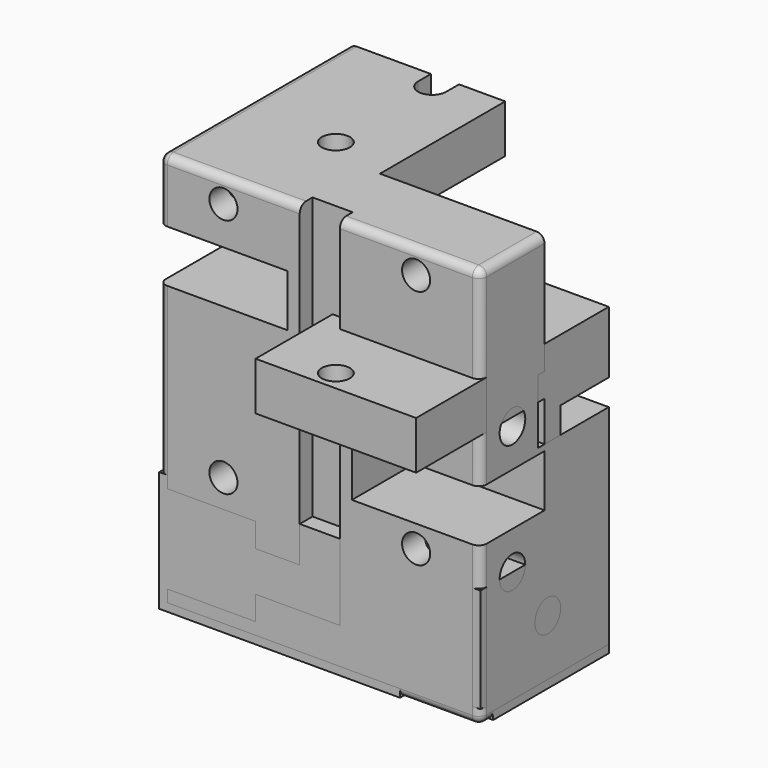
from build123d import *

# Parameters (mm, degrees)
PAD_DEPTH       = 40
SKETCH001_R     = 2
SKETCH001_W     = 6.5
SKETCH001_H     = 11
POCKET_DEPTH    = 12.5
SKETCH002_R     = 1.75
SKETCH002_W     = 20
SKETCH002_H     = 20
POCKET001_DEPTH = 6
SKETCH003_R     = 2
POCKET002_DEPTH = 10
BOX_W           = 40
BOX_H           = 40
BOX_DEPTH       = 50
FILLET_R        = 1
POCKET003_DEPTH = 40.001
POCKET005_DEPTH = 6
SKETCH007_W     = 40
SKETCH007_H     = 20
POCKET006_DEPTH = 44
SKETCH005_R     = 2
SKETCH005_W     = 10
SKETCH005_H     = 6.5
POCKET004_DEPTH = 16
SKETCH008_R     = 2
SKETCH008_W     = 10
SKETCH008_H     = 6.5
POCKET007_DEPTH = 16
SKETCH010_R     = 2
POCKET009_DEPTH = 40.001
SKETCH009_W     = 7
SKETCH009_H     = 11
POCKET008_DEPTH = 12
SKETCH011_R     = 1.75
POCKET010_DEPTH = 29.501
SKETCH012_R     = 1.75
POCKET011_DEPTH = 6
POCKET012_DEPTH = 2


with BuildPart() as body:
    # Sketch → Pad (new body)
    with BuildSketch(Plane.YZ):
        Polygon((11, 15), (11, 23), (10, 23), (10, 32), (-10, 32), (-10, 38), (20, 38), (20, 30.25), (12.5, 30.25), (12.5, 23.75), (20, 23.75), (20, 14.25), (12.5, 14.25), (12.5, 7.75), (20, 7.75), (20, 0), (0, 0), (0, 6), (0, 15), align=None)
    extrude(amount=PAD_DEPTH)

    # Sketch001 → Pocket (cut)
    with BuildSketch(Plane.YZ):
        with Locations((9.7, 8.75)):
            Circle(SKETCH001_R)
        with Locations((16.25, 34.125)):
            Circle(SKETCH001_R)
        with Locations((16.25, 19)):
            Circle(SKETCH001_R)
        with Locations((16.75, 8.75)):
            Rectangle(SKETCH001_W, SKETCH001_H)
    extrude(amount=POCKET_DEPTH, mode=Mode.SUBTRACT)

    # Sketch002 (on Face21 of Pocket) → Pocket001 (cut)
    with BuildSketch(Plane(origin=(0, 0, 38), x_dir=(0, -1, 0), z_dir=(0, 0, 1))):
        with Locations((-7.5, 28)):
            Circle(SKETCH002_R)
        with Locations((7.5, 28)):
            Circle(SKETCH002_R)
        with Locations((0, 10)):
            Rectangle(SKETCH002_W, SKETCH002_H)
    extrude(amount=-POCKET001_DEPTH, mode=Mode.SUBTRACT)

    # Sketch003 (on Face5 of Pocket001) → Pocket002 (cut)
    with BuildSketch(Plane.YZ.offset(40)):
        Circle(SKETCH003_R)
        with Locations((16.25, 11)):
            Circle(SKETCH003_R)
        with Locations((-10.3, 2.25)):
            Circle(SKETCH003_R)
    extrude(amount=-POCKET002_DEPTH, mode=Mode.SUBTRACT)


with BuildPart() as body001:
    # Box → Box (new body)
    with BuildSketch(Plane.XY):
        with Locations((20, 20)):
            Rectangle(BOX_W, BOX_H)
    extrude(amount=BOX_DEPTH)

    # Fillet
    fillet_edges = [body001.edges().sort_by_distance(p)[0] for p in [
        (40, 0, 25),
        (40, 20, 50),
        (40, 40, 25),
        (40, 20, 0),
        (20, 0, 0),
        (20, 0, 50),
        (0, 0, 25),
        (0, 20, 50),
        (20, 40, 50),
        (20, 40, 0),
        (0, 40, 25),
        (0, 20, 0),
    ]]
    fillet(fillet_edges, radius=FILLET_R)

    # Sketch004 (on Face2 of BaseFeature) → Pocket003 (cut, through all)
    with BuildSketch(Plane.YZ.offset(40)):
        Polygon((31, 27), (31, 35), (30, 35), (30, 44), (10, 44), (10, 35), (9, 35), (9, 27), align=None)
    extrude(amount=-POCKET003_DEPTH, mode=Mode.SUBTRACT)

    # Sketch006 (on Face6 of BaseFeature) → Pocket005 (cut)
    with BuildSketch(Plane.XY.offset(50)):
        Polygon((0, 29.5), (19.5, 29.5), (19.5, 10), (40, 10), (40, 40), (0, 40), align=None)
    extrude(amount=-POCKET005_DEPTH, mode=Mode.SUBTRACT)

    # Sketch007 (on Face5 of BaseFeature) → Pocket006 (cut)
    with BuildSketch(Plane(origin=(0, 0, 0), x_dir=(1, 0, 0), z_dir=(0, 0, -1))):
        with Locations((20, -30)):
            Rectangle(SKETCH007_W, SKETCH007_H)
    extrude(amount=-POCKET006_DEPTH, mode=Mode.SUBTRACT)

    # Sketch005 (on Face2 of BaseFeature) → Pocket004 (cut)
    with BuildSketch(Plane.YZ.offset(40)):
        with Locations((5, 15)):
            Circle(SKETCH005_R)
        with Locations((5, 31)):
            Circle(SKETCH005_R)
        with Locations((5, 23)):
            Rectangle(SKETCH005_W, SKETCH005_H)
    extrude(amount=-POCKET004_DEPTH, mode=Mode.SUBTRACT)

    # Sketch008 (on Face1 of BaseFeature) → Pocket007 (cut)
    with BuildSketch(Plane(origin=(0, 0, 0), x_dir=(0, -1, 0), z_dir=(-1, 0, 0))):
        with Locations((-5, 47)):
            Circle(SKETCH008_R)
        with Locations((-5, 31)):
            Circle(SKETCH008_R)
        with Locations((-5, 39)):
            Rectangle(SKETCH008_W, SKETCH008_H)
    extrude(amount=-POCKET007_DEPTH, mode=Mode.SUBTRACT)

    # Sketch010 (on Face2 of BaseFeature) → Pocket009 (cut, through all)
    with BuildSketch(Plane.YZ.offset(40)):
        with Locations((10.5, 8)):
            Circle(SKETCH010_R)
    extrude(amount=-POCKET009_DEPTH, mode=Mode.SUBTRACT)

    # Sketch009 (on Face1 of BaseFeature) → Pocket008 (cut)
    with BuildSketch(Plane(origin=(0, 0, 0), x_dir=(0, -1, 0), z_dir=(-1, 0, 0))):
        with Locations((-3.5, 8)):
            Rectangle(SKETCH009_W, SKETCH009_H)
    extrude(amount=-POCKET008_DEPTH, mode=Mode.SUBTRACT)

    # Sketch011 (on Face3 of BaseFeature) → Pocket010 (cut, through all)
    with BuildSketch(Plane.XZ):
        with Locations((8, 47)):
            Circle(SKETCH011_R)
        with Locations((32, 47)):
            Circle(SKETCH011_R)
        with Locations((8, 17)):
            Circle(SKETCH011_R)
        with Locations((32, 17)):
            Circle(SKETCH011_R)
    extrude(amount=-POCKET010_DEPTH, mode=Mode.SUBTRACT)

    # Sketch012 (on Face6 of BaseFeature) → Pocket011 (cut)
    with BuildSketch(Plane.XY.offset(50)):
        with Locations((12, 12.5)):
            Circle(SKETCH012_R)
        with BuildLine():
            ThreePointArc((10.25, 27.5), (12, 25.75), (13.75, 27.5))
            Line((13.75, 27.5), (13.75, 32.5))
            ThreePointArc((13.75, 32.5), (12, 34.25), (10.25, 32.5))
            Line((10.25, 27.5), (10.25, 32.5))
        make_face()
    extrude(amount=-POCKET011_DEPTH, mode=Mode.SUBTRACT)

    # Sketch013 (on Face3 of BaseFeature) → Pocket012 (cut)
    with BuildSketch(Plane.XZ):
        Polygon((17.5, 50), (22.5, 50), (22.5, 5.5), (0, 5.5), (0, 10.5), (17.5, 10.5), align=None)
    extrude(amount=-POCKET012_DEPTH, mode=Mode.SUBTRACT)


solid = Compound([body.part, body001.part])
